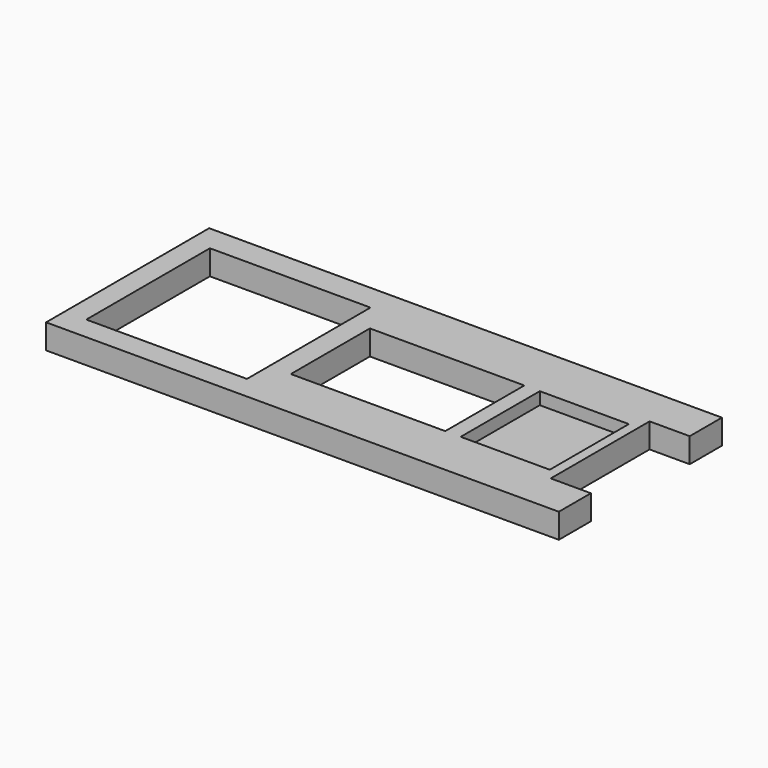
from build123d import *

# Parameters (mm, degrees)
SKETCH001_W  = 17
SKETCH001_H  = 16
PAD001_DEPTH = 2
SKETCH005_W  = 2.5
SKETCH005_H  = 18
PAD005_DEPTH = 4
SKETCH_W     = 26
SKETCH_H     = 25
SKETCH_W_2   = 25
SKETCH_H_2   = 16
PAD_DEPTH    = 4


with BuildPart() as cuerpo001:
    # Sketch001 → Pad001 (new body)
    with BuildSketch(Plane.XY):
        with Locations((66.419464, 16.283001)):
            Rectangle(SKETCH001_W, SKETCH001_H)
    extrude(amount=PAD001_DEPTH)


with BuildPart() as cuerpo001_1:
    # Body001 placement: moved
    add(cuerpo001.part.moved(Location((0, 0, 2))))


with BuildPart() as cuerpo005:
    # Sketch005 → Pad005 (new body)
    with BuildSketch(Plane.XY):
        with Locations((59.25, 16.380761)):
            Rectangle(SKETCH005_W, SKETCH005_H)
    extrude(amount=PAD005_DEPTH)


with BuildPart() as cuerpo:
    # Sketch → Pad (new body)
    with BuildSketch(Plane.XY):
        Polygon((0, 33.015301), (0, 0.015301), (83, 0.015301), (83, 6.5), (76.500001, 6.5), (76.500001, 26.5), (83, 26.5), (83, 33.015301), align=None)
        with Locations((16.5, 16.282843)):
            Rectangle(SKETCH_W, SKETCH_H, mode=Mode.SUBTRACT)
        with Locations((45.5, 16.282843)):
            Rectangle(SKETCH_W_2, SKETCH_H_2, mode=Mode.SUBTRACT)
    extrude(amount=PAD_DEPTH)

    # Boolean: cut Cuerpo001
    add(cuerpo001_1.part, mode=Mode.SUBTRACT)

    # Boolean001: union Cuerpo005
    add(cuerpo005.part)


solid = cuerpo.part
